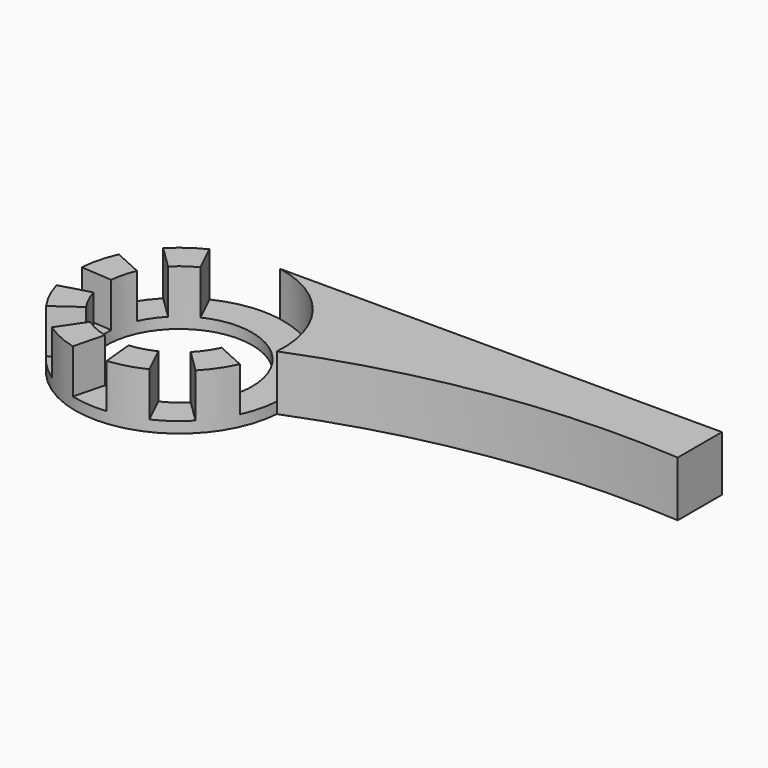
from build123d import *

# Parameters (mm, degrees)
F0_R     = 8.371120517
F1_DEPTH = 6.35
F4_DEPTH = 5.08
F6_DEPTH = 5.08


with BuildPart() as f1:
    # F0 (on Top) → F1 (new body)
    with BuildSketch(Plane.XY):
        with BuildLine():
            Line((38.1892591841, 8.8001990686), (-12.6107408159, 8.8001990686))
            ThreePointArc((-12.6107408159, 8.8001990686), (-24.206336891, -10.3022339435), (-2.7967678425, -3.8998009314))
            ThreePointArc((-2.7967678425, -3.8998009314), (17.3389637973, 1.581272222), (38.1892591841, 2.4501990686))
            Line((38.1892591841, 2.4501990686), (38.1892591841, 8.8001990686))
        make_face()
        with Locations((-14.7333428902, -2.9819420458)):
            Circle(F0_R, mode=Mode.SUBTRACT)
    extrude(amount=F1_DEPTH)

    # F3 (on face) → F4 (cut)
    with BuildSketch(Plane.XY.offset(6.35)):
        with BuildLine():
            Line((-13.560262228, -14.8961424203), (-13.9130828172, -11.3127782657))
            ThreePointArc((-13.9130828172, -11.3127782657), (-15.3721789388, -11.3286508112), (-16.8118643504, -11.0909128344))
            Line((-16.8118643504, -11.0909128344), (-17.7059041681, -14.5788454365))
            ThreePointArc((-17.7059041681, -14.5788454365), (-15.6469631426, -14.9188422648), (-13.560262228, -14.8961424203))
        make_face()
        with BuildLine():
            Line((-6.1764105875, -11.3547073221), (-8.7500289189, -8.8364798269))
            ThreePointArc((-8.7500289189, -8.8364798269), (-9.8575587193, -9.7865278105), (-11.1132367545, -10.5298218989))
            Line((-11.1132367545, -10.5298218989), (-9.5561111287, -13.7764110041))
            ThreePointArc((-9.5561111287, -13.7764110041), (-7.7603250488, -12.7134019048), (-6.1764105875, -11.3547073221))
        make_face()
        with BuildLine():
            Line((-2.7877611159, -3.8962267625), (-6.3866341249, -3.6207780944))
            ThreePointArc((-6.3866341249, -3.6207780944), (-6.6243721016, -5.060463506), (-7.1084970525, -6.4369940948))
            Line((-7.1084970525, -6.4369940948), (-3.828802369, -7.9231245789))
            ThreePointArc((-3.828802369, -7.9231245789), (-3.1369674478, -5.9565622573), (-2.7967678425, -3.8998009314))
            ThreePointArc((-2.7967678425, -3.8998009314), (-2.7922645256, -3.89801373), (-2.7877611159, -3.8962267625))
        make_face()
        with BuildLine():
            Line((-21.4930113477, -12.8627907518), (-19.4599455199, -9.8909858503))
            ThreePointArc((-19.4599455199, -9.8909858503), (-20.5878806714, -8.9652560172), (-21.5379286549, -7.8577262167))
            Line((-21.5379286549, -7.8577262167), (-24.4648027493, -9.9549598872))
            ThreePointArc((-24.4648027493, -9.9549598872), (-23.1061081665, -11.5388743485), (-21.4930113477, -12.8627907518))
        make_face()
        with BuildLine():
            Line((-26.2628364708, -6.2060801603), (-22.7951783218, -5.2363750533))
            ThreePointArc((-22.7951783218, -5.2363750533), (-23.0641791102, -3.8022021189), (-23.0800516556, -2.3431059972))
            Line((-23.0800516556, -2.3431059972), (-26.6702431093, -2.0683217935))
            ThreePointArc((-26.6702431093, -2.0683217935), (-26.6475432648, -4.155022708), (-26.2628364708, -6.2060801603))
        make_face()
        with BuildLine():
            ThreePointArc((-22.358188728, 0.4731100032), (-21.6423866947, 1.7446605838), (-20.7166568616, 2.8725957353))
            Line((-20.7166568616, 2.8725957353), (-23.2902751929, 5.3908232305))
            ThreePointArc((-23.2902751929, 5.3908232305), (-24.6141915962, 3.7777264117), (-25.6378834115, 1.9592404873))
            Line((-25.6378834115, 1.9592404873), (-22.358188728, 0.4731100032))
        make_face()
        with BuildLine():
            ThreePointArc((-18.353449026, 4.5659378073), (-16.9877758977, 5.0798933858), (-15.5536029633, 5.3488941741))
            Line((-15.5536029633, 5.3488941741), (-15.9064235525, 8.9322583287))
            ThreePointArc((-15.9064235525, 8.9322583287), (-17.9574810047, 8.5475515347), (-19.9105746518, 7.8125269125))
            Line((-19.9105746518, 7.8125269125), (-18.353449026, 4.5659378073))
        make_face()
    extrude(amount=-F4_DEPTH, mode=Mode.SUBTRACT)

    # F5 (on face) → F6 (cut)
    with BuildSketch(Plane.XY.offset(6.35)):
        with BuildLine():
            ThreePointArc((-15.4898996277, 5.2621371657), (-8.9244307049, 2.9166814686), (-6.4786379033, -3.6120735562))
            Line((-6.4786379033, -3.6120735562), (-6.4786379033, -3.865575185))
            Line((-6.4786379033, -3.865575185), (-2.7950332078, -4.1475090028))
            Line((-2.7950332078, -4.1475090028), (-2.7950332078, -3.894007374))
            ThreePointArc((-2.7950332078, -3.894007374), (-6.3406722718, 5.5572722698), (-15.8519057587, 8.9387927615))
            Line((-15.8519057587, 8.9387927615), (-16.2552728318, 8.8990769519))
            Line((-16.2552728318, 8.8990769519), (-15.8971771478, 5.2621371657))
            Line((-15.8971771478, 5.2621371657), (-15.4898996277, 5.2621371657))
        make_face()
    extrude(amount=-F6_DEPTH, mode=Mode.SUBTRACT)


solid = f1.part
